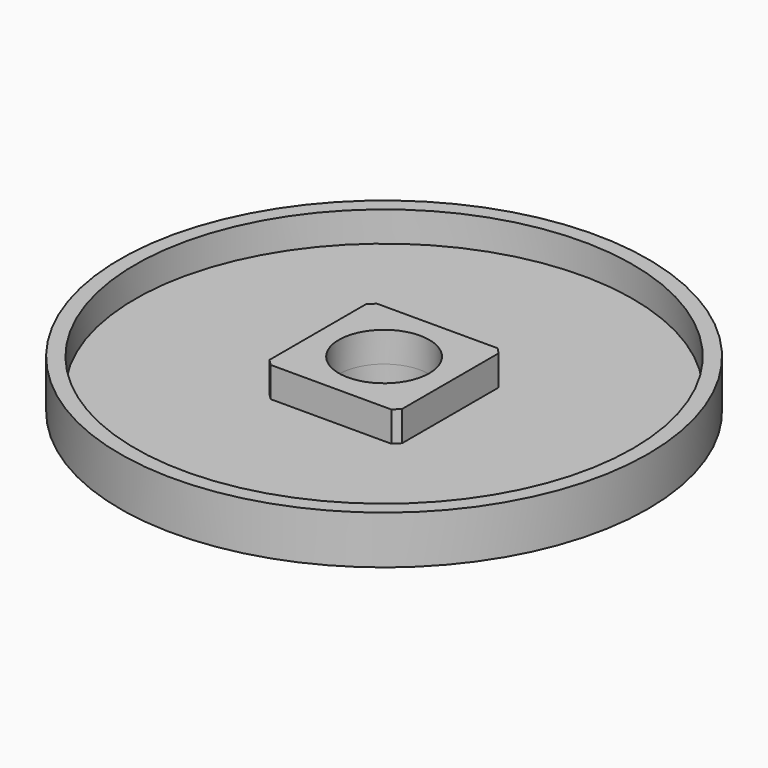
from build123d import *

# Parameters (mm, degrees)
F0_R     = 87.5
F0_R_2   = 82.5
F0_R_3   = 15
F1_DEPTH = 16
F2_DEPTH = 10
F3_W     = 44
F3_H     = 44
F3_R     = 15
F4_DEPTH = 10
F5_SIZE  = 2


with BuildPart() as f1:
    # F0 (on Top) → F1 (new body)
    with BuildSketch(Plane.XY):
        Circle(F0_R)
        Circle(F0_R_2, mode=Mode.SUBTRACT)
        Circle(F0_R_2)
        Circle(F0_R_3, mode=Mode.SUBTRACT)
    extrude(amount=-F1_DEPTH)

    # F0 (on Top) → F2 (cut)
    with BuildSketch(Plane.XY):
        Circle(F0_R_2)
        Circle(F0_R_3, mode=Mode.SUBTRACT)
    extrude(amount=-F2_DEPTH, mode=Mode.SUBTRACT)

    # F3 (on face) → F4 (join)
    with BuildSketch(Plane.XY.offset(-10)):
        Rectangle(F3_W, F3_H)
        Circle(F3_R, mode=Mode.SUBTRACT)
    extrude(amount=F4_DEPTH)

    # F5
    f5_edges = [f1.edges().sort_by_distance(p)[0] for p in [
        (22, -22, -5),
        (-22, -22, -5),
        (22, 22, -5),
        (-22, 22, -5),
    ]]
    chamfer(f5_edges, length=F5_SIZE)


solid = f1.part
